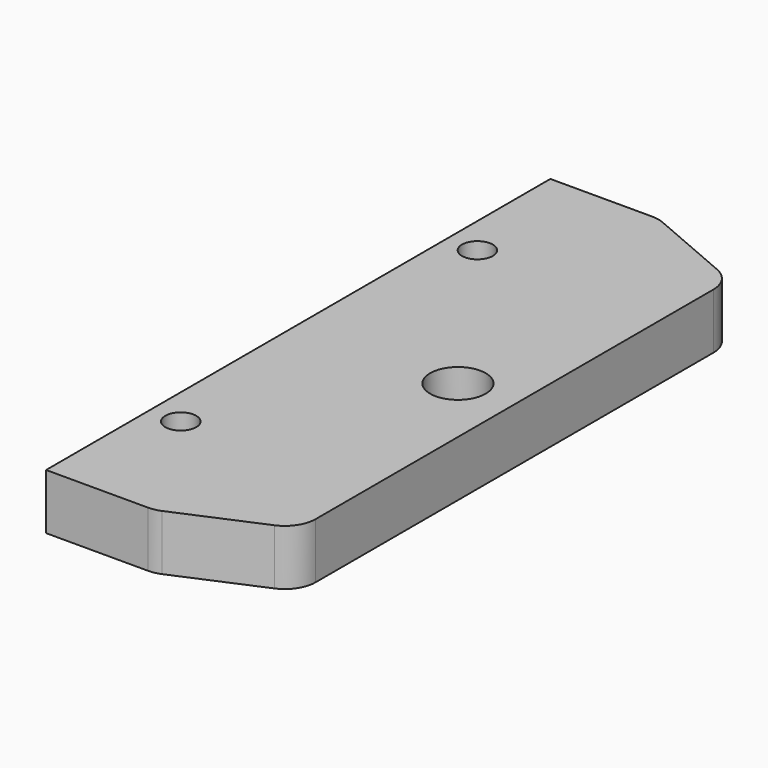
from build123d import *

# Parameters (mm, degrees)
F0_W           = 30
F0_H           = 16
F1_DEPTH       = 18
F2_D           = 12
F2_CBORE_D     = 18
F2_CBORE_DEPTH = 10
F3_DEPTH       = 20
F4_D           = 10
F4_CSINK_D     = 16
F4_CSINK_ANGLE = 90


with BuildPart() as f1:
    # F0 (on Top) → F1 (new body)
    with BuildSketch(Plane.XY):
        with BuildLine():
            Line((33.001347, 0), (0, 0))
            Line((0, 0), (0, -94))
            Line((0, -94), (30, -94))
            Line((30, -94), (30, -110))
            Line((30, -110), (0, -110))
            Line((0, -110), (0, -204))
            Line((0, -204), (33.001347, -204))
            ThreePointArc((33.001347, -204), (35.014898, -203.795183), (36.945967, -203.189123))
            Line((36.945967, -203.189123), (63.94462, -191.599396))
            ThreePointArc((63.94462, -191.599396), (68.350036, -187.912719), (70, -182.410274))
            Line((70, -182.410274), (70, -21.589726))
            ThreePointArc((70, -21.589726), (68.350036, -16.087281), (63.94462, -12.400604))
            Line((63.94462, -12.400604), (36.945967, -0.810877))
            ThreePointArc((36.945967, -0.810877), (35.014898, -0.204817), (33.001347, 0))
        make_face()
        with Locations((15, -102)):
            Rectangle(F0_W, F0_H)
    extrude(amount=-F1_DEPTH)

    # F2 (through all)
    with Locations(Plane.XY):
        with Locations((51.690422, -102)):
            CounterBoreHole(F2_D / 2, F2_CBORE_D / 2, F2_CBORE_DEPTH)

    # F0 (on Top) → F3 (join)
    with BuildSketch(Plane.XY):
        with Locations((15, -102)):
            Rectangle(F0_W, F0_H)
    extrude(amount=-F3_DEPTH)

    # F4 (through all)
    with Locations(Plane(origin=(0, 0, -18), x_dir=(1, 0, 0), z_dir=(0, 0, -1))):
        with Locations((10, 162), (10, 42)):
            CounterSinkHole(F4_D / 2, F4_CSINK_D / 2, counter_sink_angle=F4_CSINK_ANGLE)


solid = f1.part
